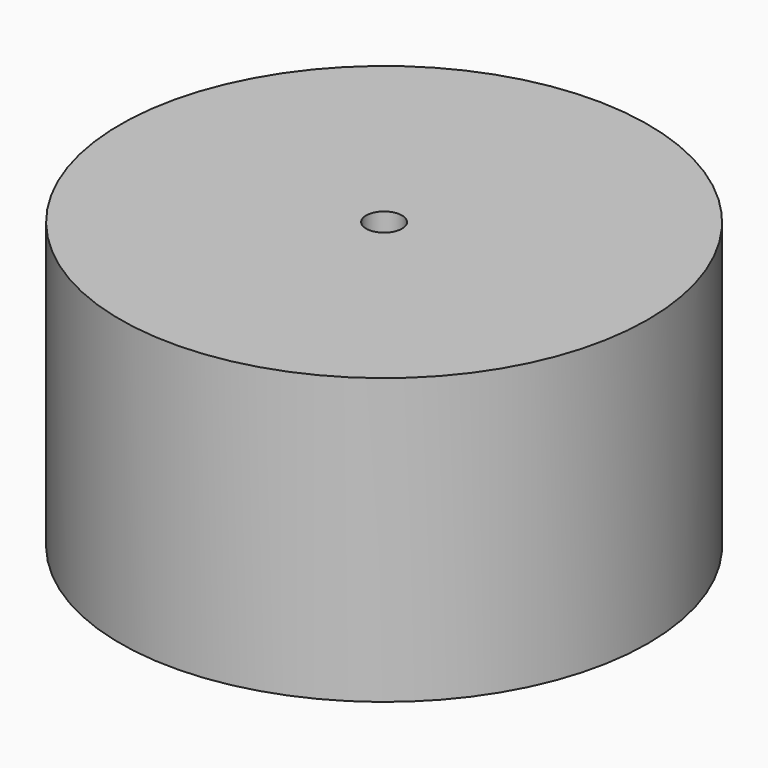
from build123d import *

# Parameters (mm, degrees)
F0_R     = 12.5
F0_R_2   = 11
F1_DEPTH = 13.5
F2_START = 7
F0_R_3   = 0.85
F2_DEPTH = 6.5


with BuildPart() as f1:
    # F0 (on Top) → F1 (new body)
    with BuildSketch(Plane.XY):
        Circle(F0_R)
        Circle(F0_R_2, mode=Mode.SUBTRACT)
    extrude(amount=F1_DEPTH)

    # F0 (on Top) → F2 (join)
    with BuildSketch(Plane.XY.offset(F2_START)):
        Circle(F0_R_2)
        Circle(F0_R_3, mode=Mode.SUBTRACT)
    extrude(amount=F2_DEPTH)


solid = f1.part
